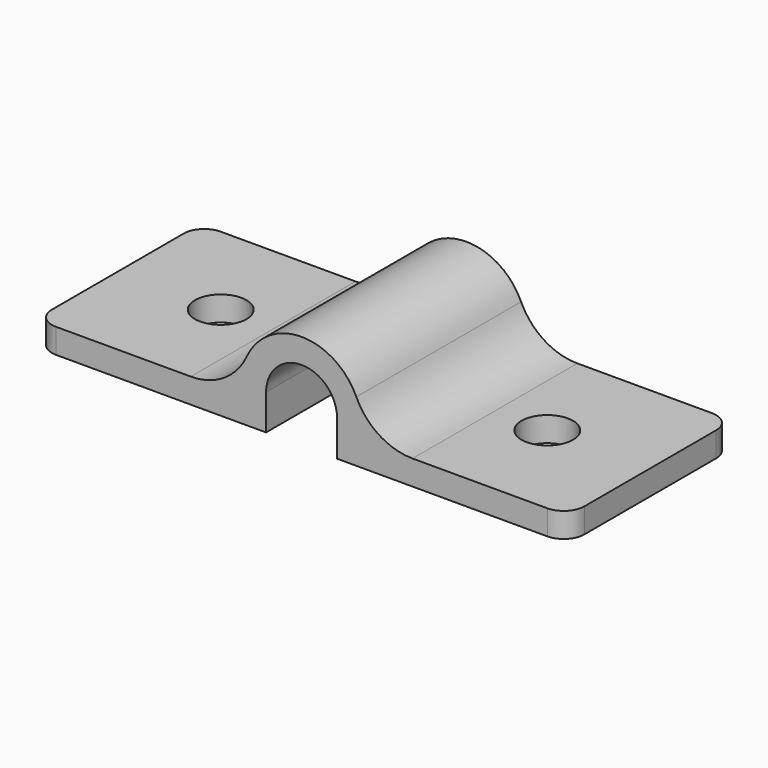
from build123d import *

# Parameters (mm, degrees)
F1_DEPTH = 10
F2_R     = 1.25
F3_DEPTH = 1.201
F4_R     = 1
F5_R     = 3


with BuildPart() as f1:
    # F0 (on Front) → F1 (new body)
    with BuildSketch(Plane.XZ):
        with BuildLine():
            ThreePointArc((-1.725, 1.725), (0, 3.45), (1.725, 1.725))
            Line((1.725, 1.725), (1.725, 0))
            Line((1.725, 0), (2.925, 0))
            Line((2.925, 0), (12.925, 0))
            Line((12.925, 0), (12.925, 1.2))
            Line((12.925, 1.2), (2.925, 1.2))
            Line((2.925, 1.2), (2.925, 1.725))
            ThreePointArc((2.925, 1.725), (0, 4.65), (-2.925, 1.725))
            Line((-2.925, 1.725), (-2.925, 1.2))
            Line((-2.925, 1.2), (-12.925, 1.2))
            Line((-12.925, 1.2), (-12.925, 0))
            Line((-12.925, 0), (-2.925, 0))
            Line((-2.925, 0), (-1.725, 0))
            Line((-1.725, 0), (-1.725, 1.725))
        make_face()
    extrude(amount=F1_DEPTH)

    # F2 (on face) → F3 (cut, through all)
    with BuildSketch(Plane.XY.offset(1.2)):
        with Locations((7.925, -5)):
            Circle(F2_R)
        with Locations((-7.925, -5)):
            Circle(F2_R)
    extrude(amount=-F3_DEPTH, mode=Mode.SUBTRACT)

    # F4
    f4_edges = [f1.edges().sort_by_distance(p)[0] for p in [
        (12.925, -10, 0.6),
        (-12.925, -10, 0.6),
        (12.925, 0, 0.6),
        (-12.925, 0, 0.6),
    ]]
    fillet(f4_edges, radius=F4_R)

    # F5
    f5_edges = [f1.edges().sort_by_distance(p)[0] for p in [
        (2.925, -5, 1.2),
        (-2.925, -5, 1.2),
    ]]
    fillet(f5_edges, radius=F5_R)


solid = f1.part
